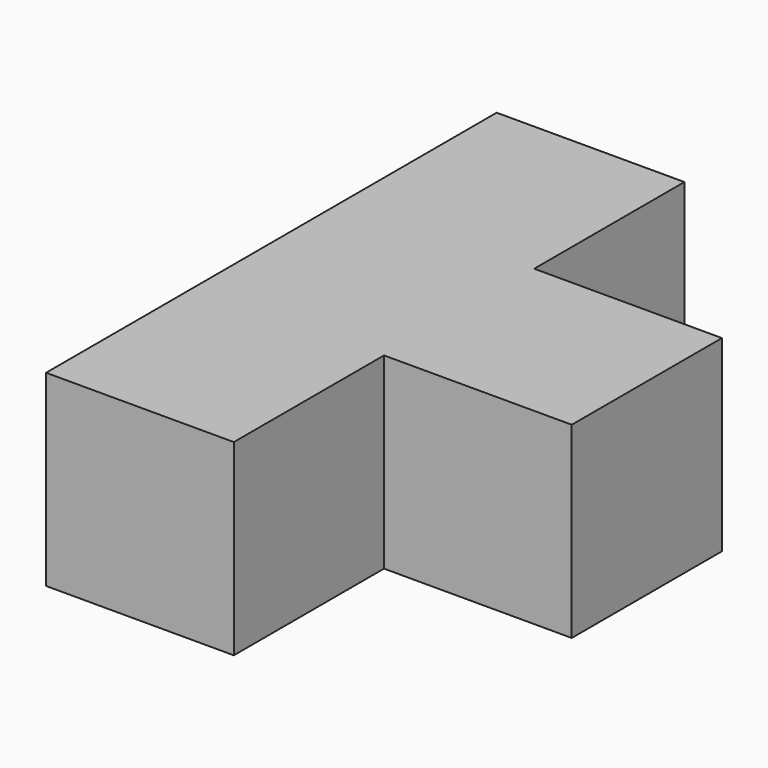
from build123d import *

# Parameters (mm, degrees)
BOX005_W     = 10
BOX005_H     = 10
BOX005_DEPTH = 10
BOX007_W     = 10
BOX007_H     = 10
BOX007_DEPTH = 10
BOX006_W     = 10
BOX006_H     = 10
BOX006_DEPTH = 10
BOX004_W     = 10
BOX004_H     = 10
BOX004_DEPTH = 10


with BuildPart() as cubo005:
    # Box005 → Box005 (new body)
    with BuildSketch(Plane(origin=(0, 10, 0), x_dir=(1, 0, 0), z_dir=(0, 0, 1))):
        with Locations((5, 5)):
            Rectangle(BOX005_W, BOX005_H)
    extrude(amount=BOX005_DEPTH)


with BuildPart() as cubo007:
    # Box007 → Box007 (new body)
    with BuildSketch(Plane(origin=(10, 10, 0), x_dir=(1, 0, 0), z_dir=(0, 0, 1))):
        with Locations((5, 5)):
            Rectangle(BOX007_W, BOX007_H)
    extrude(amount=BOX007_DEPTH)


with BuildPart() as cubo006:
    # Box006 → Box006 (new body)
    with BuildSketch(Plane(origin=(0, 20, 0), x_dir=(1, 0, 0), z_dir=(0, 0, 1))):
        with Locations((5, 5)):
            Rectangle(BOX006_W, BOX006_H)
    extrude(amount=BOX006_DEPTH)


with BuildPart() as fusion002:
    # Box004 → Box004 (new body)
    with BuildSketch(Plane.XY):
        with Locations((5, 5)):
            Rectangle(BOX004_W, BOX004_H)
    extrude(amount=BOX004_DEPTH)

    # Fusion002: union Cubo005, Cubo007, Cubo006
    add(cubo005.part)
    add(cubo007.part)
    add(cubo006.part)


with BuildPart() as fusion002_1:
    # Fusion002 placement: moved
    add(fusion002.part.moved(Location((0, -80, 0))))


solid = fusion002_1.part
